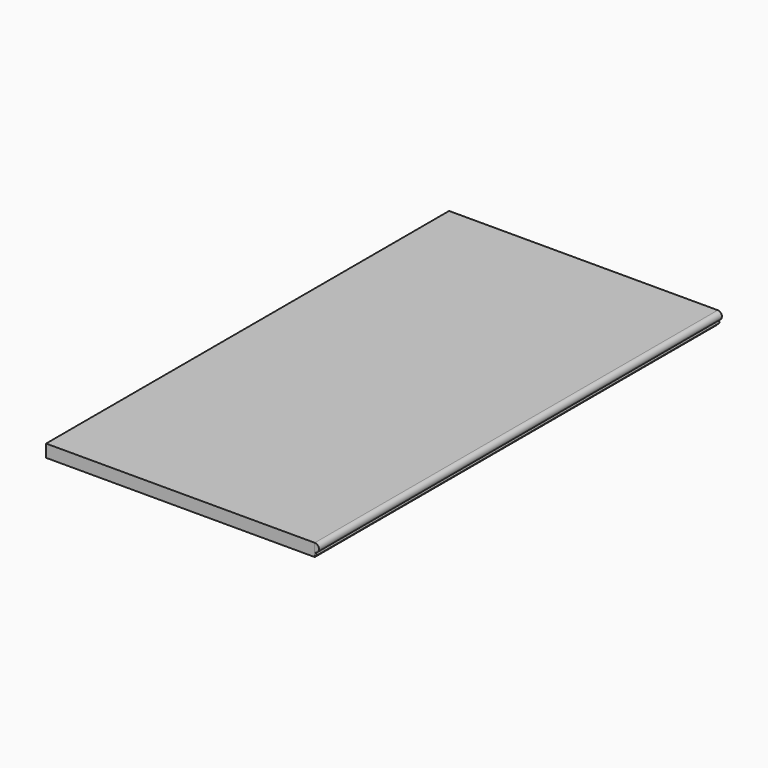
from build123d import *

# Parameters (mm, degrees)
F0_W     = 406.4
F0_H     = 762
F1_DEPTH = 19.05
F3_DEPTH = 762


with BuildPart() as f1:
    # F0 (on Top) → F1 (new body)
    with BuildSketch(Plane.XY):
        Rectangle(F0_W, F0_H)
    extrude(amount=F1_DEPTH)


with BuildPart() as f3:
    # F2 (on face) → F3 (new body, through all)
    with BuildSketch(Plane.XZ.offset(381)):
        with BuildLine():
            Line((204.724, 5.842), (204.724, 6.535592))
            ThreePointArc((204.724, 6.535592), (209.503431, 13.46763), (203.2, 19.05))
            Line((203.2, 19.05), (203.2, 1.778))
            Line((203.2, 1.778), (204.724, 1.778))
            Line((204.724, 1.778), (204.724, 5.842))
        make_face()
        with BuildLine():
            ThreePointArc((204.724, 1.778), (205.74, 3.81), (204.724, 5.842))
            Line((204.724, 5.842), (204.724, 1.778))
        make_face()
    extrude(amount=-F3_DEPTH)


solid = Compound([f1.part, f3.part])
